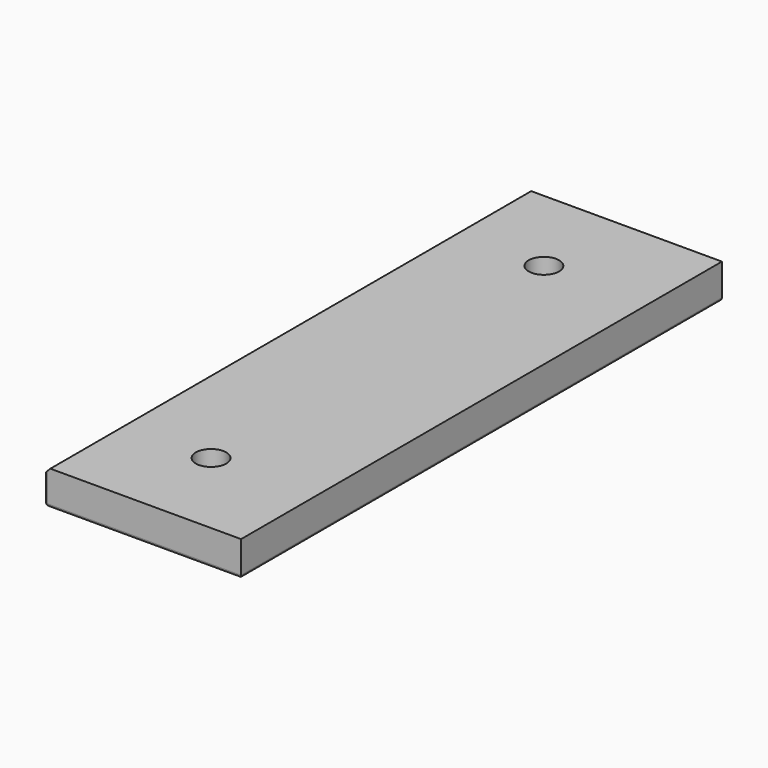
from build123d import *

# Parameters (mm, degrees)
F0_W     = 215.9
F0_H     = 660.4
F0_R     = 16.7005
F1_DEPTH = 38.1
F2_SIZE  = 6.35
F3_R     = 3.175


with BuildPart() as f1:
    # F0 (on Top) → F1 (new body)
    with BuildSketch(Plane.XY):
        with Locations((107.95, 330.2)):
            Rectangle(F0_W, F0_H)
        with Locations((101.6, 101.6)):
            Circle(F0_R, mode=Mode.SUBTRACT)
        with Locations((101.6, 558.8)):
            Circle(F0_R, mode=Mode.SUBTRACT)
    extrude(amount=F1_DEPTH)

    # F2
    f2_edges = [f1.edges().sort_by_distance(p)[0] for p in [
        (0, 330.2, 38.1),
    ]]
    chamfer(f2_edges, length=F2_SIZE)

    # F3
    f3_edges = [f1.edges().sort_by_distance(p)[0] for p in [
        (215.9, 330.2, 0),
        (107.95, 660.4, 0),
        (107.95, 0, 0),
        (0, 330.2, 0),
        (0, 0, 15.875),
        (0, 660.4, 15.875),
    ]]
    fillet(f3_edges, radius=F3_R)


solid = f1.part
